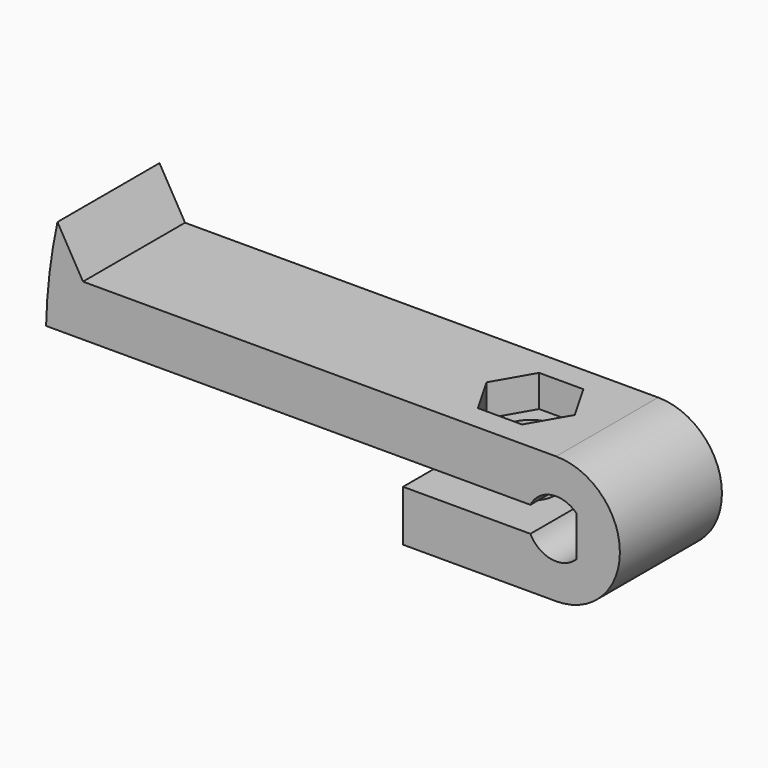
from build123d import *

# Parameters (mm, degrees)
F4_DEPTH      = 5
F4_DEPTH_BACK = 5
F1_R          = 2
F5_DEPTH      = 12
F5_DEPTH_BACK = 25
F6_START      = 2.5
F6_DEPTH      = 3.5
F7_START      = -2
F3_R          = 2.25
F7_DEPTH      = 23


with BuildPart() as f4:
    # F0 (on Front) → F4 (new body, two sides)
    with BuildSketch(Plane.XZ) as f4_sk:
        with BuildLine():
            ThreePointArc((-2.0155644371, 1), (-0.3638449939, 2.2203866376), (1.5909902577, 1.5909902577))
            Line((1.5909902577, 1.5909902577), (1.5909902577, -1.5909902577))
            ThreePointArc((1.5909902577, -1.5909902577), (-0.3638449939, -2.2203866376), (-2.0155644371, -1))
            Line((-2.0155644371, -1), (-12, -1))
            Line((-12, -1), (-12, -5))
            Line((-12, -5), (0, -5))
            ThreePointArc((0, -5), (5, 0), (0, 5))
            Line((0, 5), (-37.0942321046, 5))
            Line((-37.0942321046, 5), (-39.0942321046, 8.4641016151))
            ThreePointArc((-39.0942321046, 8.4641016151), (-39.7165987233, 4.753081722), (-39.9874980463, 1))
            Line((-39.9874980463, 1), (-2.0155644371, 1))
        make_face()
    extrude(amount=F4_DEPTH)
    extrude(f4_sk.sketch, amount=-F4_DEPTH_BACK)

    # F1 (on Top) → F5 (cut, two sides)
    with BuildSketch(Plane.XY) as f5_sk:
        with Locations((-6, 0)):
            Circle(F1_R)
    extrude(amount=-F5_DEPTH, mode=Mode.SUBTRACT)
    extrude(f5_sk.sketch, amount=F5_DEPTH_BACK, mode=Mode.SUBTRACT)

    # F2 (on Top) → F6 (cut)
    with BuildSketch(Plane.XY.offset(F6_START)):
        Polygon((-4.2679491924, -3), (-2.5358983849, 0), (-4.2679491924, 3), (-7.7320508076, 3), (-9.4641016151, 0), (-7.7320508076, -3), align=None)
    extrude(amount=F6_DEPTH, mode=Mode.SUBTRACT)

    # F3 (on Front) → F7 (cut)
    with BuildSketch(Plane.XZ.offset(F7_START)):
        Circle(F3_R)
    extrude(amount=-F7_DEPTH, mode=Mode.SUBTRACT)


solid = f4.part
